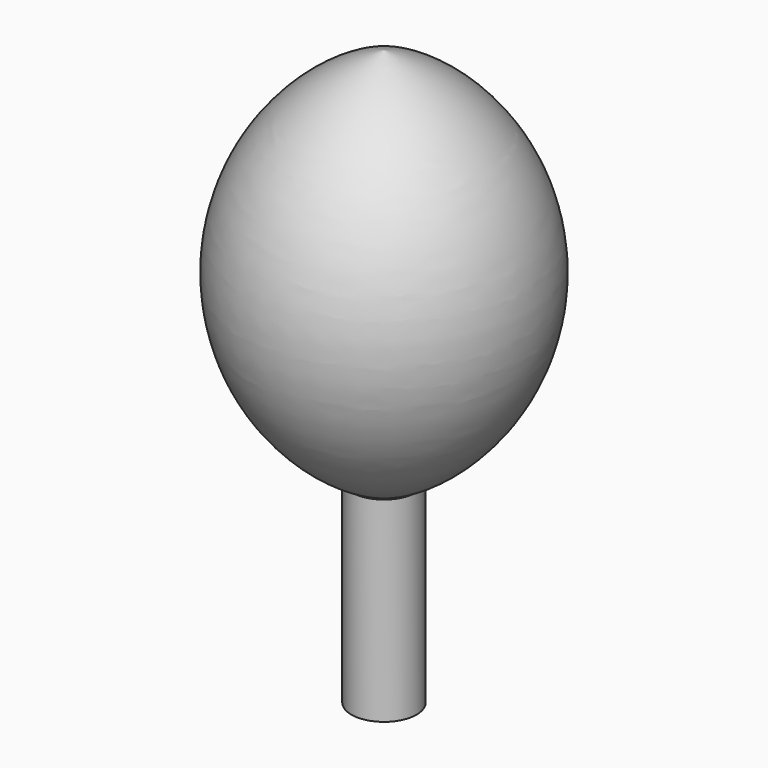
from build123d import *

# Parameters (mm, degrees)
SKETCH_R  = 152.4
PAD_DEPTH = 914.4


with BuildPart() as body:
    # Sketch → Pad (new body)
    with BuildSketch(Plane.XY):
        Circle(SKETCH_R)
    extrude(amount=PAD_DEPTH)


with BuildPart() as body001:
    # Sketch001 → Revolution (revolve)
    with BuildSketch(Plane.XZ):
        with BuildLine():
            Line((0, 0), (0, 1828.8))
            ThreePointArc((0, 1828.8), (-670.291579, 914.4), (0, 0))
        make_face()
    revolve(axis=Axis((0, 0, 0), (0, 0, 1)))


with BuildPart() as body001_1:
    # Body001 placement: moved
    add(body001.part.moved(Location((0, 0, 856))))


solid = Compound([body.part, body001_1.part])
